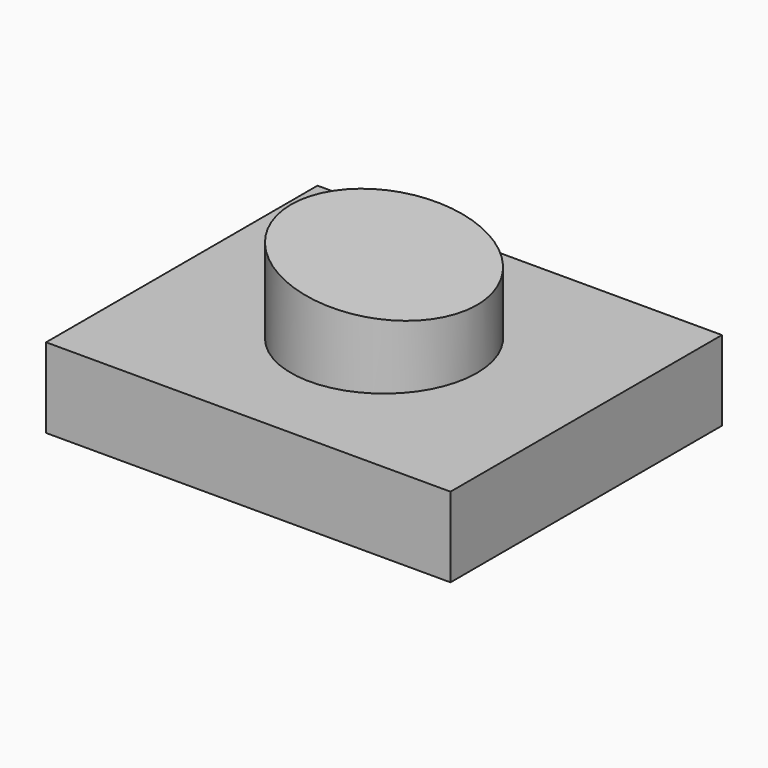
from build123d import *

# Parameters (mm, degrees)
F0_W     = 128.64919
F0_H     = 107.927158
F1_DEPTH = 25.4
F3_R     = 29.576155
F4_DEPTH = 36.322
F6_DEPTH = 38.1
F7_DEPTH = 62.992


with BuildPart() as f1:
    # F0 (on Top) → F1 (new body)
    with BuildSketch(Plane.XY):
        Rectangle(F0_W, F0_H)
    extrude(amount=F1_DEPTH)

    # F3 (on face) → F4 (join)
    with BuildSketch(Plane.XY.offset(25.4)):
        Circle(F3_R)
    extrude(amount=F4_DEPTH)

    # F5 (on Front) → F6 (cut)
    with BuildSketch(Plane.XZ):
        Polygon((-54.256331, 60.477722), (-46.154052, 55.84785), (49.91582, 41.379493), (30.238859, 72.631143), align=None)
    extrude(amount=-F6_DEPTH, mode=Mode.SUBTRACT)

    # F5 (on Front) → F7 (cut)
    with BuildSketch(Plane.XZ):
        Polygon((-54.256331, 60.477722), (-46.154052, 55.84785), (49.91582, 41.379493), (30.238859, 72.631143), align=None)
    extrude(amount=F7_DEPTH, mode=Mode.SUBTRACT)


solid = f1.part
